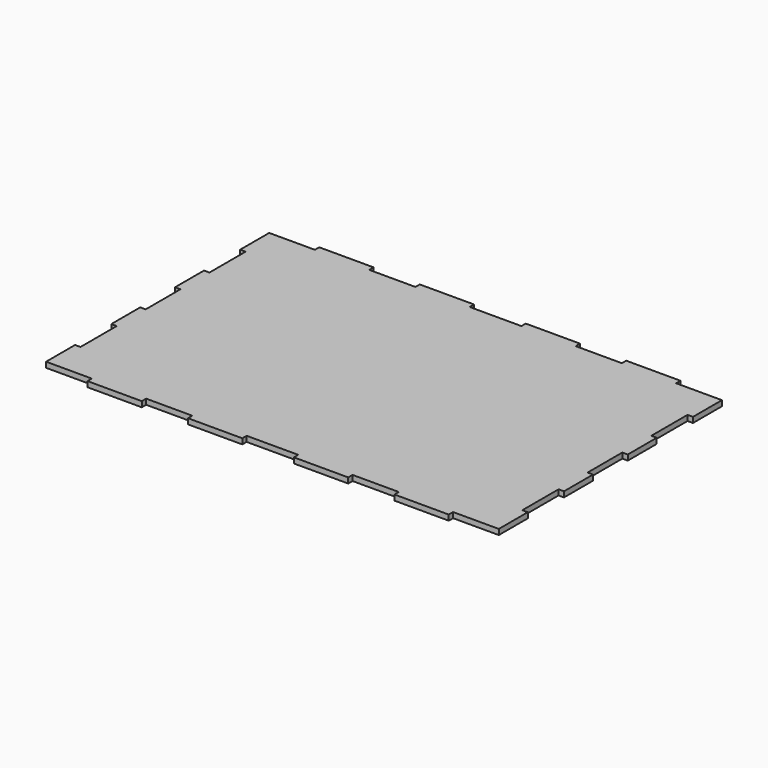
from build123d import *

# Parameters (mm, degrees)
F1_DEPTH = 3


with BuildPart() as f1:
    # F0 (on Top) → F1 (new body)
    with BuildSketch(Plane.XY):
        Polygon((-99.75, -77), (-99.75, -80), (-84.75, -80), (-69.75, -80), (-69.75, -77), (-44.25, -77), (-44.25, -80), (-29.25, -80), (-14.25, -80), (-14.25, -77), (14.25, -77), (14.25, -80), (44.25, -80), (44.25, -77), (69.75, -77), (69.75, -80), (99.75, -80), (99.75, -77), (125, -77), (125, -57), (122, -57), (122, -32), (125, -32), (125, -12), (122, -12), (122, 12), (123.5, 22), (122, 32), (122, 57), (125, 57), (125, 77), (99.75, 77), (99.75, 80), (69.75, 80), (69.75, 77), (44.25, 77), (44.25, 80), (14.25, 80), (14.25, 77), (-14.25, 77), (-14.25, 80), (-44.25, 80), (-44.25, 77), (-69.75, 77), (-69.75, 80), (-99.75, 80), (-99.75, 77), (-125, 77), (-125, 57), (-122, 57), (-122, 32), (-125, 32), (-125, 12), (-122, 12), (-122, -12), (-125, -12), (-125, -32), (-122, -32), (-122, -57), (-125, -57), (-125, -77), align=None)
        Polygon((123.5, 22), (122, 12), (125, 12), align=None)
        Polygon((123.5, 22), (125, 12), (125, 22), align=None)
        Polygon((122, 32), (123.5, 22), (125, 32), align=None)
        Polygon((125, 32), (123.5, 22), (125, 22), align=None)
    extrude(amount=F1_DEPTH)


solid = f1.part
